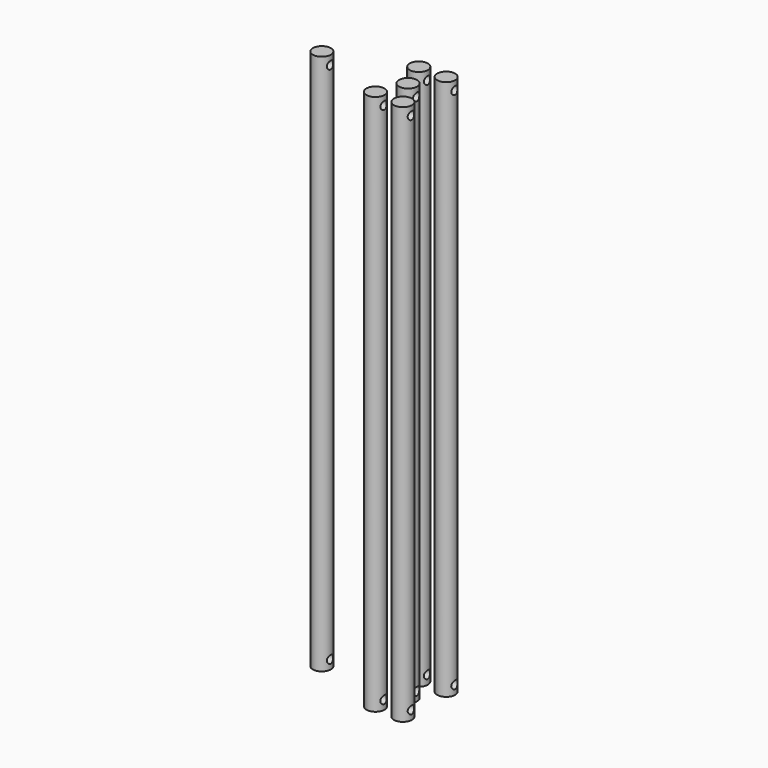
from build123d import *

# Parameters (mm, degrees)
F0_R     = 2.5
F1_DEPTH = 150
F4_R     = 2.5
F5_DEPTH = 150
F3_R     = 1.1
F6_DEPTH = 10000


with BuildPart() as f1:
    # F0 (on Top) → F1 (new body)
    with BuildSketch(Plane.XY):
        with Locations((-3.032224, -7.5)):
            Circle(F0_R)
        with Locations((-3.032224, 7.5)):
            Circle(F0_R)
        with Locations((4.567776, -7.5)):
            Circle(F0_R)
        with Locations((4.567776, 7.5)):
            Circle(F0_R)
        Circle(F0_R)
    extrude(amount=F1_DEPTH)


with BuildPart() as f5:
    # F4 (on Top) → F5 (new body)
    with BuildSketch(Plane.XY):
        with Locations((-23.899409, 0)):
            Circle(F4_R)
    extrude(amount=F5_DEPTH)


with BuildPart() as f6_tool:
    # F3 (on offset) → F6 (new body)
    with BuildSketch(Plane.YZ.offset(26.8)):
        with Locations((-7.528253, 2.49984)):
            Circle(F3_R)
        with Locations((0, 2.49984)):
            Circle(F3_R)
        with Locations((7.528253, 2.49984)):
            Circle(F3_R)
        with Locations((7.528253, 147.50016)):
            Circle(F3_R)
        with Locations((0, 147.50016)):
            Circle(F3_R)
        with Locations((-7.528253, 147.50016)):
            Circle(F3_R)
    extrude(amount=-F6_DEPTH)


with BuildPart() as f1_1:
    add(f1.part)

    # F6: cut by f6_tool
    add(f6_tool.part, mode=Mode.SUBTRACT)


with BuildPart() as f5_1:
    add(f5.part)

    # F6: cut by f6_tool
    add(f6_tool.part, mode=Mode.SUBTRACT)


solid = Compound([f1_1.part, f5_1.part])
